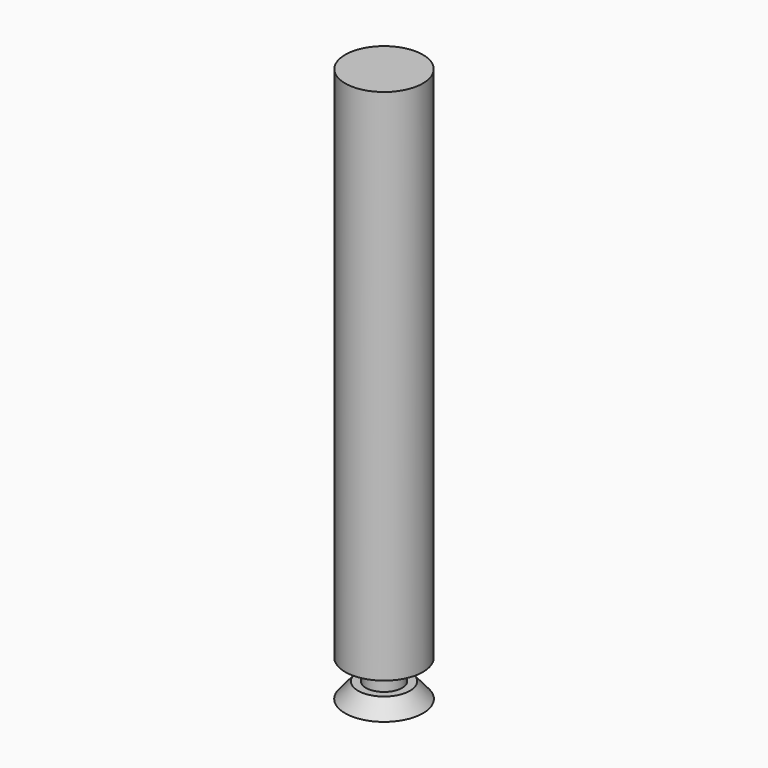
from build123d import *

# Parameters (mm, degrees)
F0_R     = 9.525
F1_DEPTH = 127
F2_R     = 4.445
F3_DEPTH = 5.08
F4_R     = 6.35
F4_R_2   = 4.445
F5_DEPTH = 3.81
F5_TAPER = -40


with BuildPart() as f1:
    # F0 (on Top) → F1 (new body)
    with BuildSketch(Plane.XY):
        Circle(F0_R)
    extrude(amount=-F1_DEPTH)


with BuildPart() as f3:
    # F2 (on face) → F3 (new body)
    with BuildSketch(Plane(origin=(0, 0, -127), x_dir=(1, 0, 0), z_dir=(0, 0, -1))):
        Circle(F2_R)
    extrude(amount=F3_DEPTH)


with BuildPart() as f5:
    # F4 (on face) → F5 (new body)
    with BuildSketch(Plane(origin=(0, 0, -132.08), x_dir=(1, 0, 0), z_dir=(0, 0, -1))):
        Circle(F4_R)
        Circle(F4_R_2, mode=Mode.SUBTRACT)
    extrude(amount=F5_DEPTH, taper=F5_TAPER)


solid = Compound([f1.part, f3.part, f5.part])
